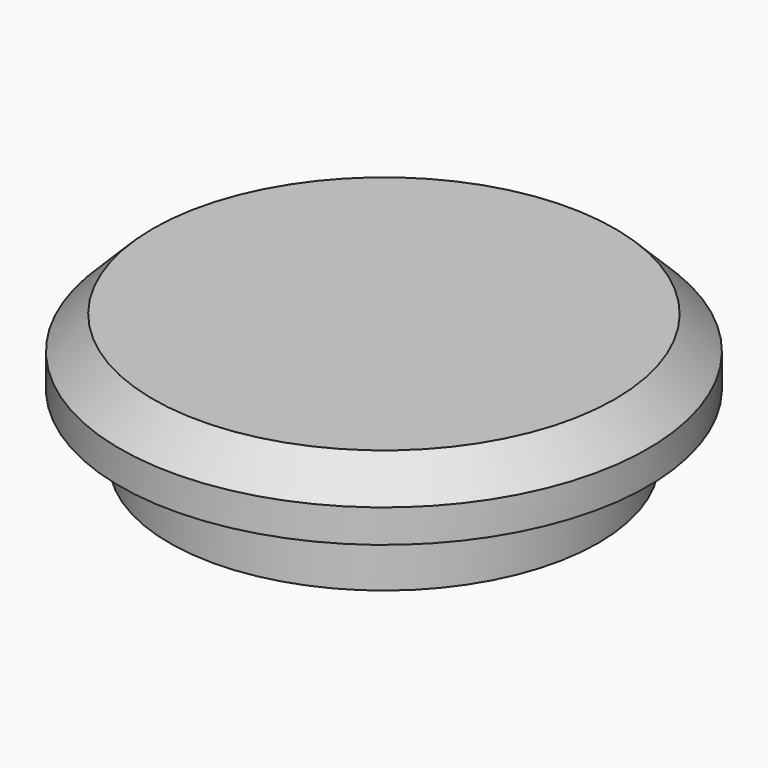
from build123d import *

# Parameters (mm, degrees)
F2_SIZE2 = 10
F2_SIZE  = 10


with BuildPart() as f1:
    # F0 (on Front) → F1 (revolve)
    with BuildSketch(Plane.XZ):
        Polygon((-65, 0), (0, 0), (0, 40), (-80, 40), (-80, 20), (-65, 20), align=None)
    revolve(axis=Axis((0, 0, 20), (0, 0, -1)))

    # F2
    f2_edges = [f1.edges().sort_by_distance(p)[0] for p in [
        (80, 0, 40),
    ]]
    chamfer(f2_edges, length=F2_SIZE, length2=F2_SIZE2)


solid = f1.part
